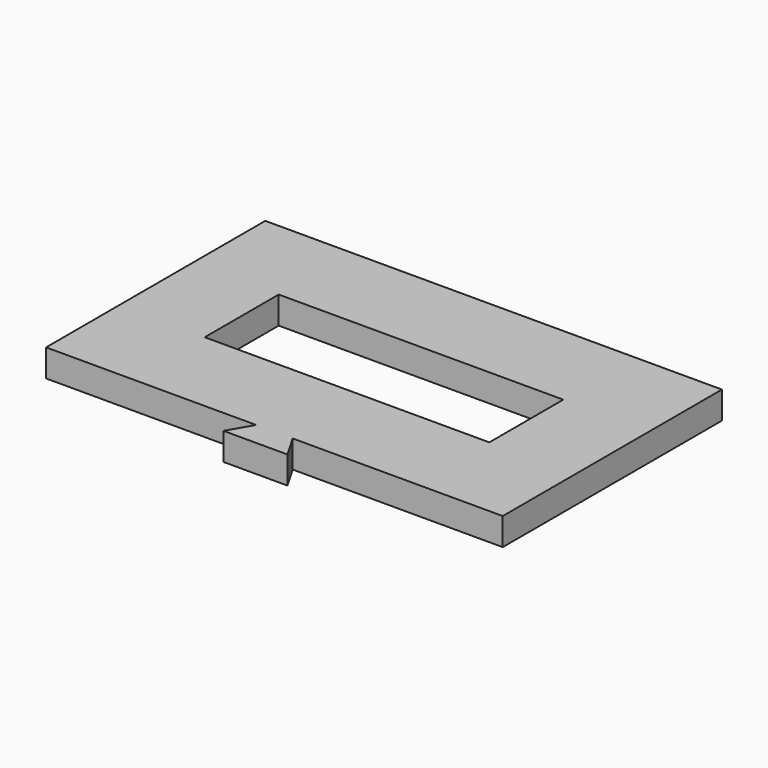
from build123d import *

# Parameters (mm, degrees)
F1_DEPTH = 3.81


with BuildPart() as f1:
    # F0 (on Top) → F1 (new body)
    with BuildSketch(Plane.XY):
        Polygon((-34.29, 0), (-5.08, 0), (-6.985, -3.299557), (1.905, -3.299557), (0, 0), (29.21, 0), (29.21, 38.1), (-2.54, 38.1), (-34.29, 38.1), align=None)
        Polygon((-22.3266, 25.4762), (-2.54, 25.4762), (17.2466, 25.4762), (17.2466, 12.6238), (-22.3266, 12.6238), align=None, mode=Mode.SUBTRACT)
    extrude(amount=F1_DEPTH)


solid = f1.part
